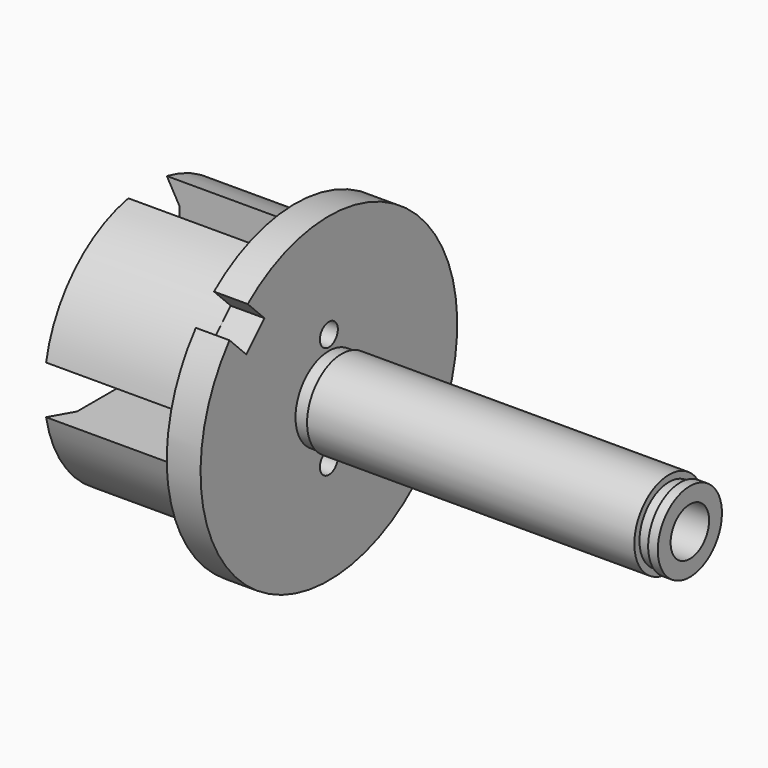
from build123d import *

# Parameters (mm, degrees)
F2_W     = 3
F2_H     = 3
F3_DEPTH = 9.201
F4_R     = 0.7
F5_DEPTH = 11.301


with BuildPart() as f1:
    # F0 (on Front) → F1 (revolve)
    with BuildSketch(Plane.XZ):
        Polygon((9.2, 8.05), (0, 8.05), (0.8, 6.6643593539), (0.8, 2.4), (9.4, 2.4), (10.3, 1.5), (14.8, 1.5), (14.8, 1.7), (27.8, 1.7), (27.8, 1.5), (33.8, 1.5), (33.8, 2.5), (33.2, 2.5), (33.2, 2.3), (32.5, 2.3), (32.5, 2.7), (12.1, 2.7), (12.1, 2.6), (11.3, 2.6), (11.3, 10), (9.2, 10), align=None)
    revolve(axis=Axis((16.7398190946, 0, 0), (1, 0, 0)))

    # F2 (on face) → F3 (cut, through all)
    with BuildSketch(Plane(origin=(9.2, 0, 0), x_dir=(0, -1, 0), z_dir=(-1, 0, 0))):
        with BuildLine():
            Line((1.5, 1.5), (1.5, 7.909013845))
            ThreePointArc((1.5, 7.909013845), (0, 8.05), (-1.5, 7.909013845))
            Line((-1.5, 7.909013845), (-1.5, 1.5))
            Line((-1.5, 1.5), (1.5, 1.5))
        make_face()
        with BuildLine():
            Line((1.5, 7.909013845), (1.5, 9.8868599666))
            ThreePointArc((1.5, 9.8868599666), (0, 10), (-1.5, 9.8868599666))
            Line((-1.5, 9.8868599666), (-1.5, 7.909013845))
            ThreePointArc((-1.5, 7.909013845), (0, 8.05), (1.5, 7.909013845))
        make_face()
        with BuildLine():
            Line((-1.5, -1.5), (-1.5, 1.5))
            Line((-1.5, 1.5), (-7.909013845, 1.5))
            ThreePointArc((-7.909013845, 1.5), (-8.05, 0), (-7.909013845, -1.5))
            Line((-7.909013845, -1.5), (-1.5, -1.5))
        make_face()
        with BuildLine():
            Line((-7.909013845, 1.5), (-9.8868599666, 1.5))
            ThreePointArc((-9.8868599666, 1.5), (-10, 0), (-9.8868599666, -1.5))
            Line((-9.8868599666, -1.5), (-7.909013845, -1.5))
            ThreePointArc((-7.909013845, -1.5), (-8.05, 0), (-7.909013845, 1.5))
        make_face()
        Rectangle(F2_W, F2_H)
        with BuildLine():
            ThreePointArc((8.05, 0), (8.0146759589, 0.7533055648), (7.909013845, 1.5))
            Line((7.909013845, 1.5), (1.5, 1.5))
            Line((1.5, 1.5), (1.5, -1.5))
            Line((1.5, -1.5), (7.909013845, -1.5))
            ThreePointArc((7.909013845, -1.5), (8.0146759589, -0.7533055648), (8.05, 0))
        make_face()
        with BuildLine():
            ThreePointArc((9.8868599666, -1.5), (9.971674876, -0.7521304187), (10, 0))
            ThreePointArc((10, 0), (9.971674876, 0.7521304187), (9.8868599666, 1.5))
            Line((9.8868599666, 1.5), (7.909013845, 1.5))
            ThreePointArc((7.909013845, 1.5), (8.0146759589, 0.7533055648), (8.05, 0))
            ThreePointArc((8.05, 0), (8.0146759589, -0.7533055648), (7.909013845, -1.5))
            Line((7.909013845, -1.5), (9.8868599666, -1.5))
        make_face()
        with BuildLine():
            ThreePointArc((-1.5, -7.909013845), (0, -8.05), (1.5, -7.909013845))
            Line((1.5, -7.909013845), (1.5, -1.5))
            Line((1.5, -1.5), (-1.5, -1.5))
            Line((-1.5, -1.5), (-1.5, -7.909013845))
        make_face()
        with BuildLine():
            ThreePointArc((-1.5, -9.8868599666), (0, -10), (1.5, -9.8868599666))
            Line((1.5, -9.8868599666), (1.5, -7.909013845))
            ThreePointArc((1.5, -7.909013845), (0, -8.05), (-1.5, -7.909013845))
            Line((-1.5, -7.909013845), (-1.5, -9.8868599666))
        make_face()
    extrude(amount=F3_DEPTH, mode=Mode.SUBTRACT)

    # F4 (on face) → F5 (cut, through all)
    with BuildSketch(Plane.YZ.offset(11.3)):
        with BuildLine():
            Line((-5.0204581464, 6.4346717088), (-6.3285168585, 7.7427304209))
            ThreePointArc((-6.3285168585, 7.7427304209), (-7.0710678119, 7.0710678119), (-7.7427304209, 6.3285168585))
            Line((-7.7427304209, 6.3285168585), (-6.4346717088, 5.0204581464))
            Line((-6.4346717088, 5.0204581464), (-5.0204581464, 6.4346717088))
        make_face()
        with Locations((0, 3.5)):
            Circle(F4_R)
        with Locations((0, -3.5)):
            Circle(F4_R)
    extrude(amount=-F5_DEPTH, mode=Mode.SUBTRACT)

    # F0 (on Front) → F6 (revolve, cut)
    with BuildSketch(Plane.XZ):
        Polygon((25.1366349399, -5.0709682839), (21.3, -0.0709682839), (21.3, -5.0709682839), align=None)
    revolve(axis=Axis((21.3, 0, -2.5709682839), (0, 0, -1)), mode=Mode.SUBTRACT)


solid = f1.part
